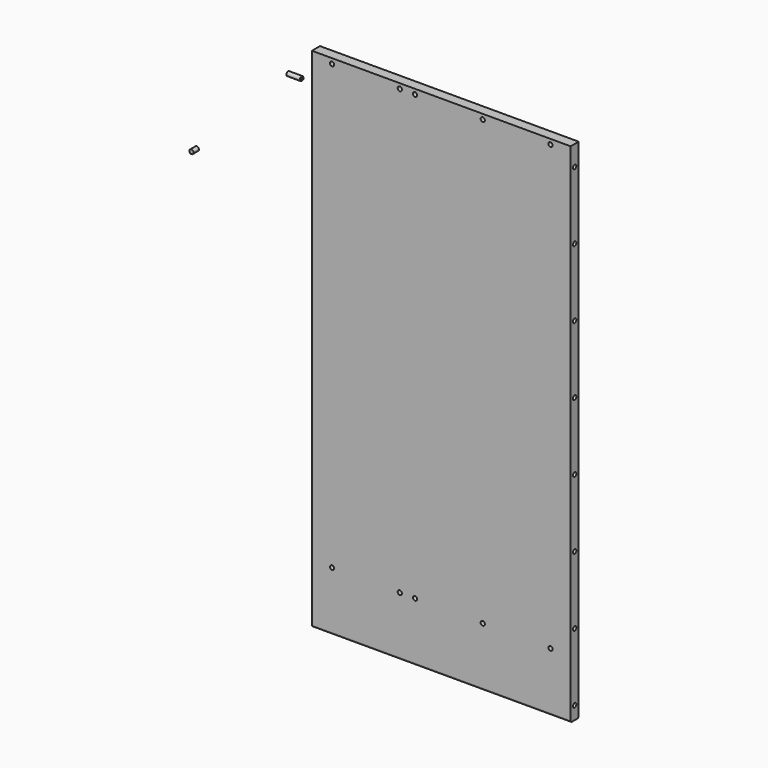
from build123d import *

# Parameters (mm, degrees)
F0_W      = 488.95
F0_H      = 958.85
F1_DEPTH  = 19.05
F3_R      = 4.0005
F31_DEPTH = 26.9875
F4_SIZE   = 1.5875
F16_R     = 4
F17_DEPTH = 14.2875
F18_SIZE  = 1.5875
F30_R     = 3.175


with BuildPart() as f1:
    # F0 (on Front) → F1 (new body)
    with BuildSketch(Plane.XZ):
        Rectangle(F0_W, F0_H)
    extrude(amount=-F1_DEPTH)


with BuildPart() as f31:
    # F3 (on face) → F31 (new body)
    with BuildSketch(Plane(origin=(-244.475, 0, 0), x_dir=(0, -1, 0), z_dir=(-1, 0, 0))):
        with Locations((56.2027394772, 464.1683995724)):
            Circle(F3_R)
    extrude(amount=-F31_DEPTH)

    # F4
    f4_edges = [f31.edges().sort_by_distance(p)[0] for p in [
        (-217.4875, -52.202239, 464.1684),
    ]]
    chamfer(f4_edges, length=F4_SIZE)


with BuildPart() as f6_1:
    # F6: copy of F31
    add(f31.part.moved(Location((0, 65.7277394772, -22.8433995724))))


with BuildPart() as f7_1:
    # F7: copy of F6_1
    add(f6_1.part.moved(Location((0, 0, -128))))


with BuildPart() as f32_1:
    # F32: copy of F7_1
    add(f7_1.part.moved(Location((0, 0, -127.9906))))


with BuildPart() as f8_1:
    # F8: copy of F31
    add(f31.part.moved(Location((0, 65.7277394772, -406.8347595724))))


with BuildPart() as f9_1:
    # F9: copy of F31
    add(f31.part.moved(Location((0, 65.7277394772, -534.8355195724))))


with BuildPart() as f10_1:
    # F10: copy of F31
    add(f31.part.moved(Location((0, 65.7277394772, -662.8362795724))))


with BuildPart() as f11_1:
    # F11: copy of F31
    add(f31.part.moved(Location((0, 65.7277394772, -790.8362795724))))


with BuildPart() as f12_1:
    # F12: copy of F31
    add(f31.part.moved(Location((0, 65.7277394772, -918.8370395724))))


with BuildPart() as f13_1:
    # F13: instance of F6_1
    add(f6_1.part.mirror(Plane.YZ))


with BuildPart() as f13_2:
    # F13: instance of F7_1
    add(f7_1.part.mirror(Plane.YZ))


with BuildPart() as f13_3:
    # F13: instance of F32_1
    add(f32_1.part.mirror(Plane.YZ))


with BuildPart() as f13_4:
    # F13: instance of F8_1
    add(f8_1.part.mirror(Plane.YZ))


with BuildPart() as f13_5:
    # F13: instance of F9_1
    add(f9_1.part.mirror(Plane.YZ))


with BuildPart() as f13_6:
    # F13: instance of F10_1
    add(f10_1.part.mirror(Plane.YZ))


with BuildPart() as f13_7:
    # F13: instance of F11_1
    add(f11_1.part.mirror(Plane.YZ))


with BuildPart() as f13_8:
    # F13: instance of F12_1
    add(f12_1.part.mirror(Plane.YZ))


with BuildPart() as f1_1:
    add(f1.part)

    # F14: cut F13_1, F13_2, F13_3, F13_4, F13_5, F13_6, F13_7, F13_8, F6_1, F7_1, F32_1, F8_1, F9_1, F10_1, F11_1, F12_1
    add(f13_1.part, mode=Mode.SUBTRACT)
    add(f13_2.part, mode=Mode.SUBTRACT)
    add(f13_3.part, mode=Mode.SUBTRACT)
    add(f13_4.part, mode=Mode.SUBTRACT)
    add(f13_5.part, mode=Mode.SUBTRACT)
    add(f13_6.part, mode=Mode.SUBTRACT)
    add(f13_7.part, mode=Mode.SUBTRACT)
    add(f13_8.part, mode=Mode.SUBTRACT)
    add(f6_1.part, mode=Mode.SUBTRACT)
    add(f7_1.part, mode=Mode.SUBTRACT)
    add(f32_1.part, mode=Mode.SUBTRACT)
    add(f8_1.part, mode=Mode.SUBTRACT)
    add(f9_1.part, mode=Mode.SUBTRACT)
    add(f10_1.part, mode=Mode.SUBTRACT)
    add(f11_1.part, mode=Mode.SUBTRACT)
    add(f12_1.part, mode=Mode.SUBTRACT)


with BuildPart() as f17:
    # F16 (on Front) → F17 (new body)
    with BuildSketch(Plane.XZ):
        with Locations((-472.2514748573, 237.2588217258)):
            Circle(F16_R)
    extrude(amount=-F17_DEPTH)

    # F18
    f18_edges = [f17.edges().sort_by_distance(p)[0] for p in [
        (-476.251475, 14.2875, 237.258822),
    ]]
    chamfer(f18_edges, length=F18_SIZE)


with BuildPart() as f19_1:
    # F19: copy of F17
    add(f17.part.moved(Location((265.8764748573, 0, 232.6411782742))))


with BuildPart() as f20_1:
    # F20: copy of F17
    add(f17.part.moved(Location((393.8764748573, 0, 232.6411782742))))


with BuildPart() as f21_1:
    # F21: copy of F17
    add(f17.part.moved(Location((422.6264748573, 0, 232.6411782742))))


with BuildPart() as f22_1:
    # F22: copy of F17
    add(f17.part.moved(Location((550.6264748573, 0, 232.6411782742))))


with BuildPart() as f23_1:
    # F23: copy of F17
    add(f17.part.moved(Location((678.6264748573, 0, 232.6411782742))))


with BuildPart() as f24_1:
    # F24: copy of F17
    add(f17.part.moved(Location((265.8764748573, 0, -605.5588217258))))


with BuildPart() as f25_1:
    # F25: copy of F17
    add(f17.part.moved(Location((393.8764748573, 0, -605.5588217258))))


with BuildPart() as f26_1:
    # F26: copy of F17
    add(f17.part.moved(Location((422.6264748573, 0, -605.5588217258))))


with BuildPart() as f27_1:
    # F27: copy of F17
    add(f17.part.moved(Location((550.6264748573, 0, -605.5588217258))))


with BuildPart() as f28_1:
    # F28: copy of F17
    add(f17.part.moved(Location((678.6264748573, 0, -605.5588217258))))


with BuildPart() as f1_2:
    add(f1_1.part)

    # F29: cut F24_1, F25_1, F26_1, F27_1, F28_1, F19_1, F20_1, F21_1, F22_1, F23_1
    add(f24_1.part, mode=Mode.SUBTRACT)
    add(f25_1.part, mode=Mode.SUBTRACT)
    add(f26_1.part, mode=Mode.SUBTRACT)
    add(f27_1.part, mode=Mode.SUBTRACT)
    add(f28_1.part, mode=Mode.SUBTRACT)
    add(f19_1.part, mode=Mode.SUBTRACT)
    add(f20_1.part, mode=Mode.SUBTRACT)
    add(f21_1.part, mode=Mode.SUBTRACT)
    add(f22_1.part, mode=Mode.SUBTRACT)
    add(f23_1.part, mode=Mode.SUBTRACT)

    # F30
    f30_edges = [f1_2.edges().sort_by_distance(p)[0] for p in [
        (0, 19.05, -479.425),
        (0, 0, -479.425),
    ]]
    fillet(f30_edges, radius=F30_R)


solid = Compound([f31.part, f17.part, f1_2.part])
